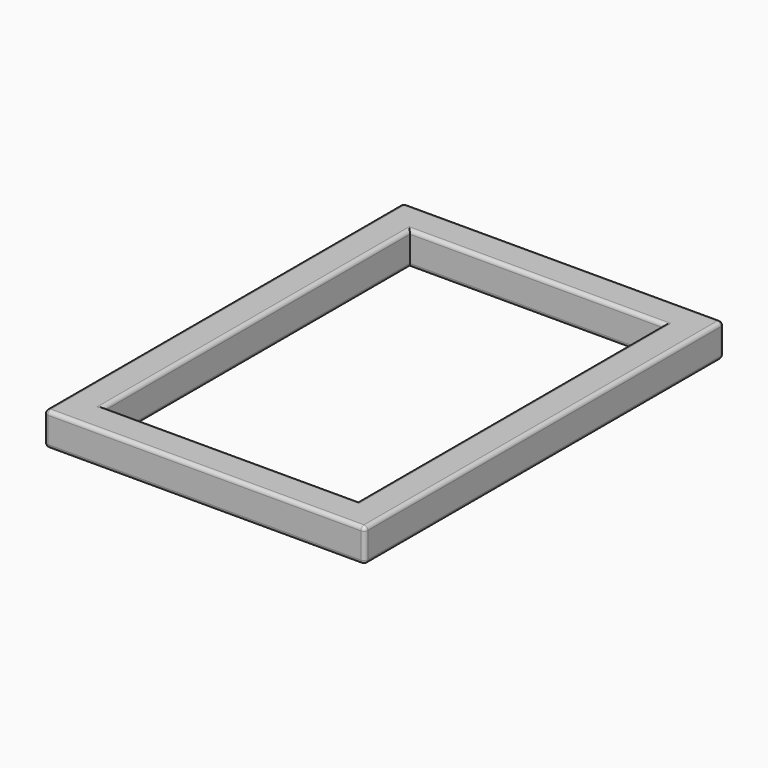
from build123d import *

# Parameters (mm, degrees)
F0_W     = 500
F0_H     = 700
F0_W_2   = 396
F0_H_2   = 596
F1_DEPTH = 52
F2_R     = 6


with BuildPart() as f1:
    # F0 (on Top) → F1 (new body)
    with BuildSketch(Plane.XY):
        with Locations((-29.352488, 7.008711)):
            Rectangle(F0_W, F0_H)
        with Locations((-29.352488, 7.008711)):
            Rectangle(F0_W_2, F0_H_2, mode=Mode.SUBTRACT)
    extrude(amount=F1_DEPTH)

    # F2
    f2_edges = [f1.edges().sort_by_distance(p)[0] for p in [
        (-29.352488, 357.008711, 0),
        (-279.352488, 7.008711, 0),
        (-29.352488, -342.991289, 0),
        (220.647512, 7.008711, 0),
        (-227.352488, 7.008711, 0),
        (-29.352488, 305.008711, 0),
        (168.647512, 7.008711, 0),
        (-29.352488, -290.991289, 0),
        (-29.352488, 357.008711, 52),
        (-279.352488, 7.008711, 52),
        (-29.352488, -342.991289, 52),
        (220.647512, 7.008711, 52),
        (-227.352488, 7.008711, 52),
        (-29.352488, 305.008711, 52),
        (168.647512, 7.008711, 52),
        (-29.352488, -290.991289, 52),
        (-279.352488, 357.008711, 26),
        (-279.352488, -342.991289, 26),
        (220.647512, -342.991289, 26),
        (220.647512, 357.008711, 26),
    ]]
    fillet(f2_edges, radius=F2_R)


solid = f1.part
